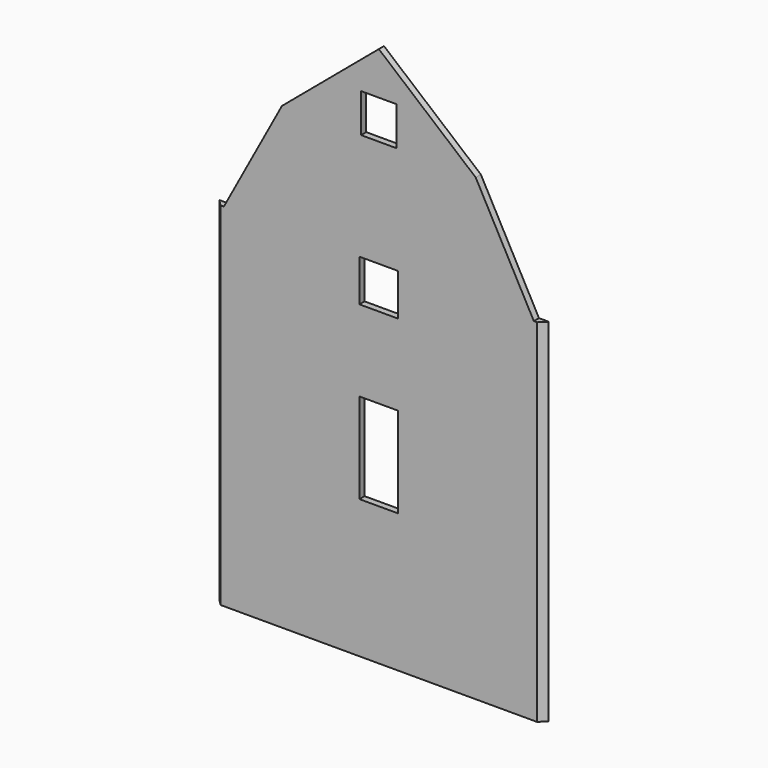
from build123d import *

# Parameters (mm, degrees)
F0_W     = 12
F0_H     = 28
F1_DEPTH = 2
F3_DEPTH = 250
F5_DEPTH = 250


with BuildPart() as f1:
    # F0 (on Front) → F1 (new body)
    with BuildSketch(Plane.XZ):
        Polygon((85.290909, -39.870985), (133.290909, -39.870985), (184.290909, -39.870985), (184.290909, -11.236302), (184.290909, 69.079015), (181.290909, 69.079015), (163.290909, 102.380682), (133.290909, 127.629015), (103.290909, 102.380682), (85.290909, 69.079015), (82.290909, 69.079015), (82.290909, -39.870985), align=None)
        with Locations((133.290909, 16.979015)):
            Rectangle(F0_W, F0_H, mode=Mode.SUBTRACT)
        Polygon((133.290909, 69.079015), (139.290909, 69.079015), (139.290909, 56.079015), (127.290909, 56.079015), (127.290909, 69.079015), align=None, mode=Mode.SUBTRACT)
        Polygon((138.790909, 114.380682), (138.790909, 102.380682), (133.290909, 102.380682), (127.790909, 102.380682), (127.790909, 114.380682), align=None, mode=Mode.SUBTRACT)
    extrude(amount=F1_DEPTH)

    # F2 (on face) → F3 (cut)
    with BuildSketch(Plane.XY.offset(69.079015)):
        Polygon((182.290909, -2), (184.290909, -2), (184.290909, 0), align=None)
    extrude(amount=-F3_DEPTH, mode=Mode.SUBTRACT)

    # F4 (on face) → F5 (cut)
    with BuildSketch(Plane.XY.offset(69.079015)):
        Polygon((82.290909, 0), (82.290909, -2), (84.290909, -2), align=None)
    extrude(amount=-F5_DEPTH, mode=Mode.SUBTRACT)


solid = f1.part
